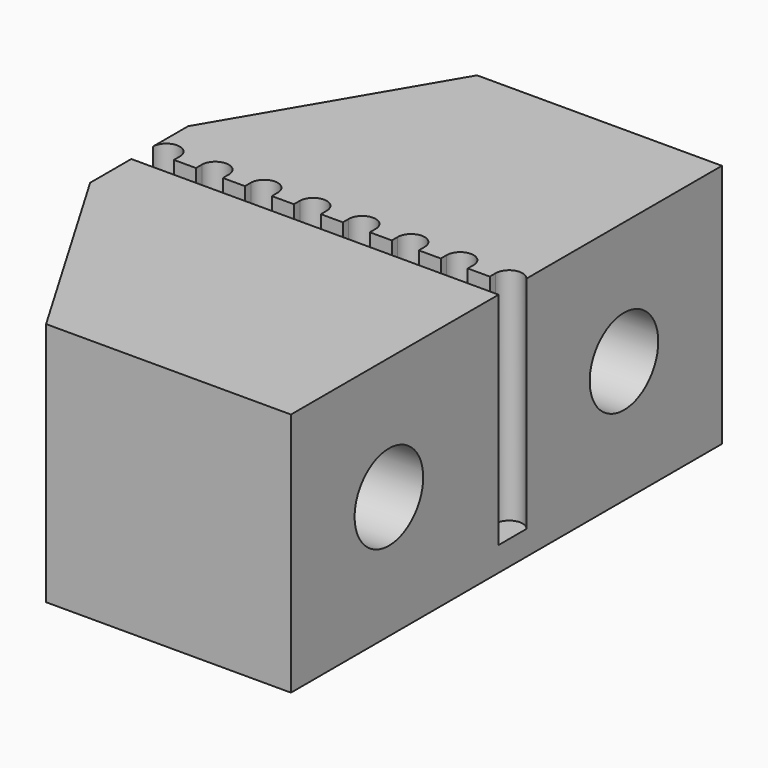
from build123d import *

# Parameters (mm, degrees)
PAD_DEPTH           = 10
SKETCH001_R         = 1.75
POCKET_DEPTH        = 15.001
SKETCH002_R         = 4
POCKET001_DEPTH     = 5
SKETCH004_W         = 15
SKETCH004_H         = 0.8
POCKET002_DEPTH     = 9
POCKET003_DEPTH     = 9
LINEARPATTERN_COUNT = 8
LINEARPATTERN_PITCH = 2


with BuildPart() as part:
    # Sketch → Pad (new body)
    with BuildSketch(Plane.XY):
        Polygon((-5, 11), (5, 11), (5, -11), (-5, -11), (-10, -2.5), (-10, 2.5), align=None)
    extrude(amount=PAD_DEPTH)

    # Sketch001 → Pocket (cut, through all)
    with BuildSketch(Plane.YZ.offset(5)):
        with Locations((-6, 5)):
            Circle(SKETCH001_R)
        with Locations((6, 5)):
            Circle(SKETCH001_R)
    extrude(amount=-POCKET_DEPTH, mode=Mode.SUBTRACT)

    # Sketch002 → Pocket001 (cut)
    with BuildSketch(Plane(origin=(-10, 0, 0), x_dir=(0, -1, 0), z_dir=(-1, 0, 0))):
        with Locations((-6, 5)):
            Circle(SKETCH002_R)
        with Locations((6, 5)):
            Circle(SKETCH002_R)
    extrude(amount=-POCKET001_DEPTH, mode=Mode.SUBTRACT)

    # Sketch004 → Pocket002 (cut)
    with BuildSketch(Plane.XY.offset(10)):
        with Locations((-2.5, 0)):
            Rectangle(SKETCH004_W, SKETCH004_H)
    extrude(amount=-POCKET002_DEPTH, mode=Mode.SUBTRACT)

    # Sketch003 → Pocket003 (cut)
    with BuildSketch(Plane.XY.offset(10)):
        with BuildLine():
            ThreePointArc((-8.9, 0.7), (-9.45, 1.25), (-10, 0.7))
            Line((-10, 0.7), (-10, 0.4))
            Line((-10, 0.4), (-8.9, 0.4))
            Line((-8.9, 0.4), (-8.9, 0.7))
        make_face()
    pocket003 = extrude(amount=-POCKET003_DEPTH, mode=Mode.SUBTRACT)

    # LinearPattern: Pocket003 ×8
    with Locations(*[(i * LINEARPATTERN_PITCH, 0, 0) for i in range(1, LINEARPATTERN_COUNT)]):
        add(pocket003, mode=Mode.SUBTRACT)


solid = part.part
